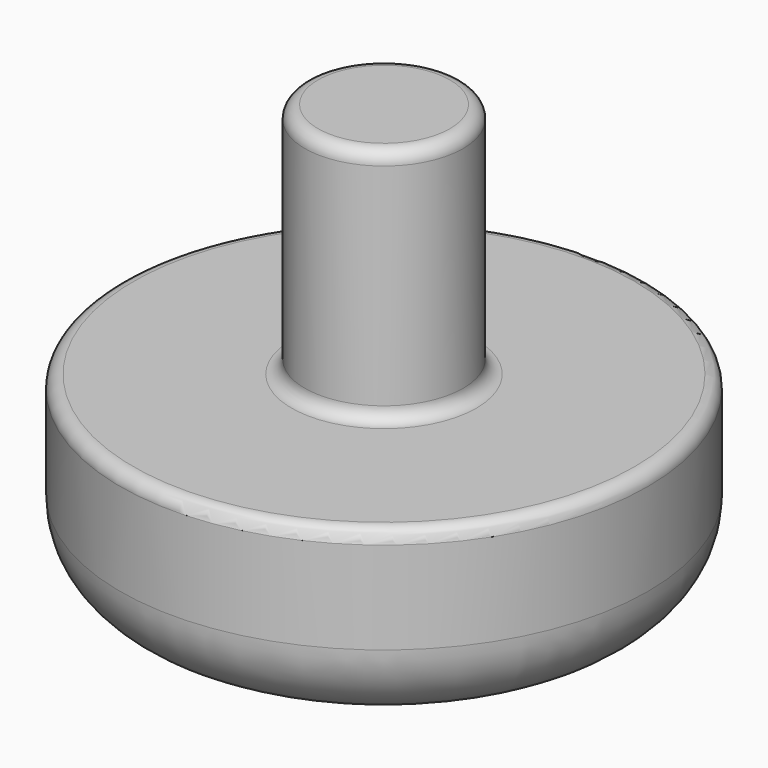
from build123d import *

# Parameters (mm, degrees)
F0_R     = 10
F1_DEPTH = 7
F2_R     = 3
F3_DEPTH = 9
F4_R     = 3
F5_R     = 0.5


with BuildPart() as f1:
    # F0 (on Top) → F1 (new body)
    with BuildSketch(Plane.XY):
        Circle(F0_R)
    extrude(amount=-F1_DEPTH)

    # F2 (on face) → F3 (join)
    with BuildSketch(Plane.XY):
        Circle(F2_R)
    extrude(amount=F3_DEPTH)

    # F4
    f4_edges = [f1.edges().sort_by_distance(p)[0] for p in [
        (-10, 0, -7),
    ]]
    fillet(f4_edges, radius=F4_R)

    # F5
    f5_edges = [f1.edges().sort_by_distance(p)[0] for p in [
        (-10, 0, 0),
        (-3, 0, 9),
        (-3, 0, 0),
    ]]
    fillet(f5_edges, radius=F5_R)


solid = f1.part
